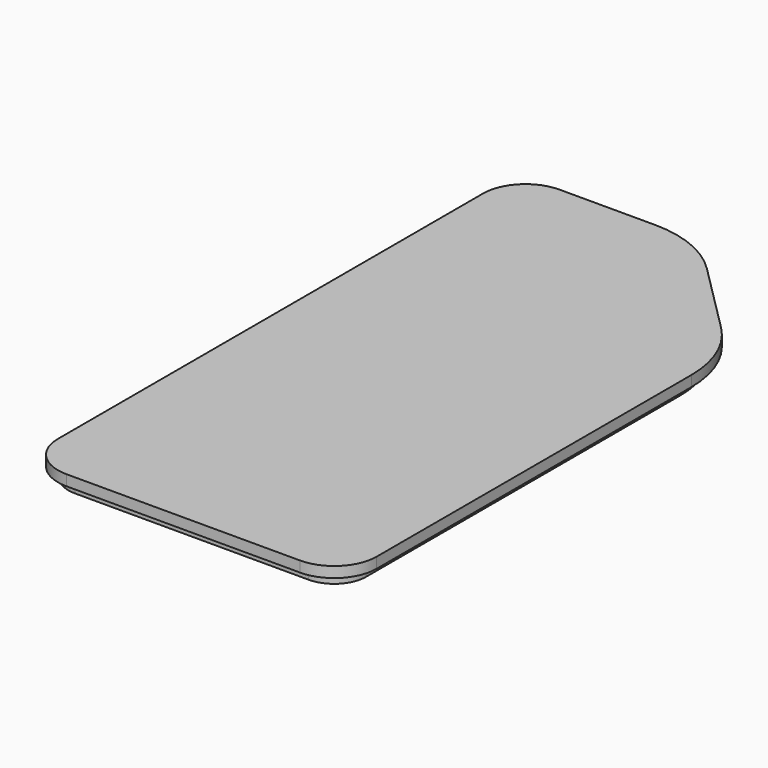
from build123d import *

# Parameters (mm, degrees)
PAD_DEPTH    = 2
PAD001_DEPTH = 2


with BuildPart() as pad001:
    # Sketch → Pad (new body)
    with BuildSketch(Plane.XY):
        with BuildLine():
            Line((60, 8), (60, 82.000001))
            ThreePointArc((60, 82.000001), (58.434586, 89.869877), (53.976662, 96.541638))
            Line((40.541631, 109.976664), (53.976662, 96.541638))
            ThreePointArc((40.541631, 109.976664), (33.869872, 114.434584), (25.999999, 115.999997))
            Line((7.999999, 115.999997), (25.999999, 115.999997))
            ThreePointArc((7.999999, 115.999997), (2.343146, 113.656851), (0, 107.999998))
            Line((0, 107.999998), (0, 8))
            ThreePointArc((0, 8), (2.343146, 2.343146), (8, 0))
            Line((8, 0), (52, 0))
            ThreePointArc((52, 0), (57.656854, 2.343146), (60, 8))
        make_face()
    extrude(amount=PAD_DEPTH)

    # Sketch001 → Pad001 (new body)
    with BuildSketch(Plane.XY.offset(2)):
        with BuildLine():
            ThreePointArc((8.00001, 113.999998), (3.757363, 112.242642), (2, 107.999998))
            Line((2, 107.999998), (2, 8))
            ThreePointArc((2, 8), (3.757359, 3.757359), (8, 2))
            Line((8, 2), (52, 2))
            ThreePointArc((52, 2), (56.242642, 3.757359), (58.000001, 8))
            Line((58.000001, 82), (58.000001, 8))
            ThreePointArc((58.000001, 82), (56.586824, 89.104519), (52.562435, 95.127438))
            Line((39.127419, 108.562437), (52.562435, 95.127438))
            ThreePointArc((39.127419, 108.562437), (33.104503, 112.586822), (25.99999, 113.999998))
            Line((8.00001, 113.999998), (25.99999, 113.999998))
        make_face()
    extrude(amount=PAD001_DEPTH)


with BuildPart() as part_mirroring:
    # Part__Mirroring: instance of Pad001
    add(pad001.part.mirror(Plane(origin=(0, 0, 0), x_dir=(0, 1, 0), z_dir=(0, 0, 1))))


solid = part_mirroring.part
